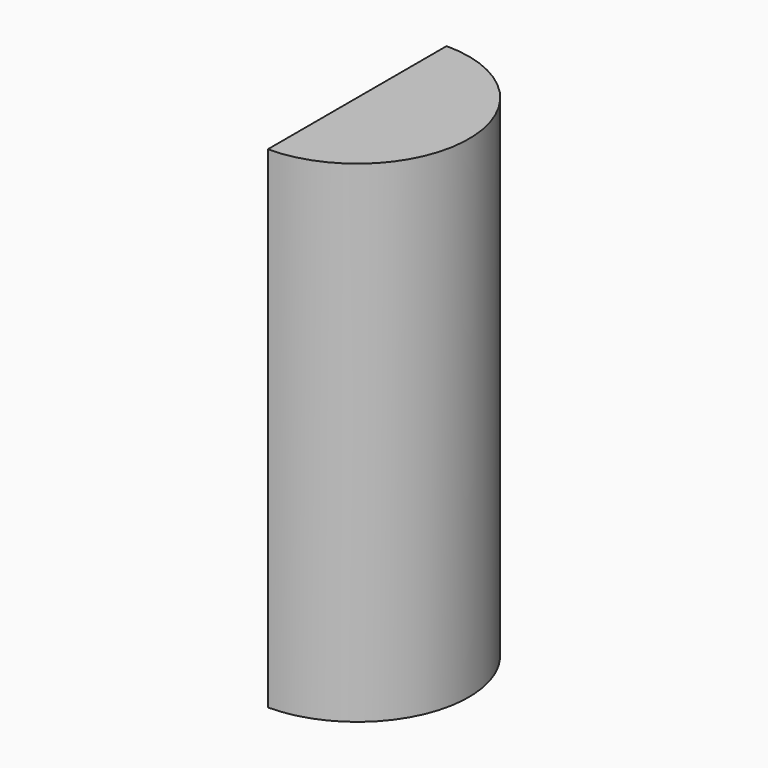
from build123d import *

# Parameters (mm, degrees)
CYLINDER_W     = 0.3
CYLINDER_H     = 1.32
CYLINDER_ANGLE = 180


with BuildPart() as part:
    # Cylinder → Cylinder (revolve)
    with BuildSketch(Plane(origin=(0, 0, 0), x_dir=(0, -1, 0), z_dir=(-1, 0, 0))):
        with Locations((0.15, 0.66)):
            Rectangle(CYLINDER_W, CYLINDER_H)
    revolve(axis=Axis((0, 0, 0), (0, 0, 1)), revolution_arc=CYLINDER_ANGLE)


solid = part.part
